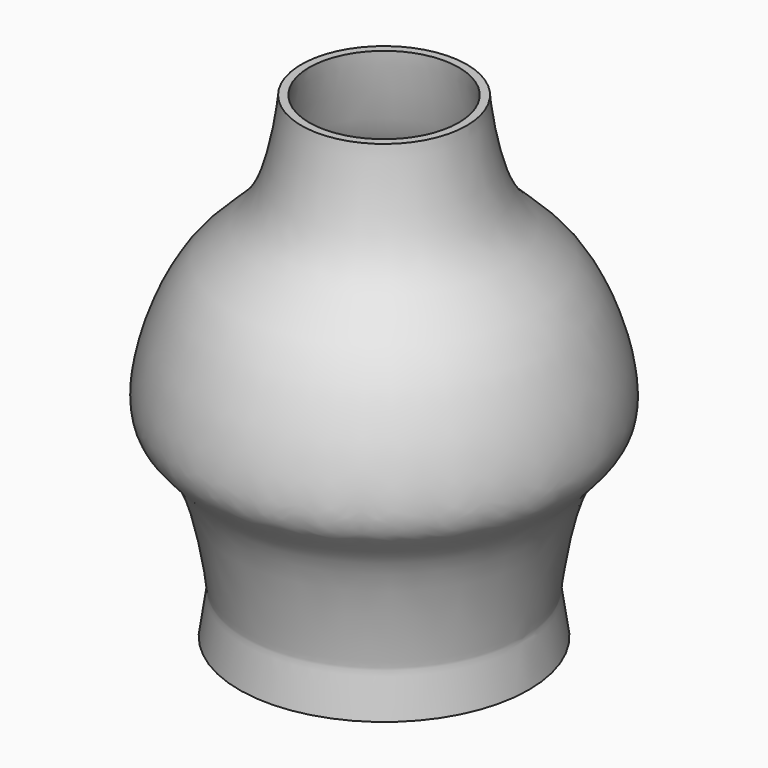
from build123d import *

# Parameters (mm, degrees)
F2_T = -2.54


with BuildPart() as f1:
    # F0 (on Front) → F1 (revolve)
    with BuildSketch(Plane.XZ):
        with BuildLine():
            Line((0, -76.2460678816), (45.9646433592, -75.4372254014))
            add(Edge.make_bspline(
                [(45.9646433592, -75.4372254014), (45.1315547474, -69.9651725205), (43.9959527903, -62.50609329), (43.9273815873, -61.2915524271), (48.8448251315, -23.219806909), (68.61977784, -16.1031524217), (53.9236425123, 31.6160656855), (29.8900458082, 41.3051039956), (26.411326281, 73.6045179735), (26.2806899846, 75.896397233)],
                knots=[0, 0, 0, 0, 0.109485838, 0.1492426257, 0.3278903929, 0.459066708, 0.65357113, 0.8158598802, 0.9801215624, 0.9801215624, 0.9801215624, 0.9801215624], degree=3))
            Line((26.2806899846, 75.896397233), (0, 75.896397233))
            Line((0, 75.896397233), (0, -76.2460678816))
        make_face()
    revolve(axis=Axis((0, 0, -0.1748353243), (0, 0, -1)))

    # F2
    f2_openings = [f1.faces().sort_by_distance(p)[0] for p in [
        (0, 0, 75.896397),
    ]]
    offset(amount=F2_T, openings=f2_openings)


solid = f1.part
